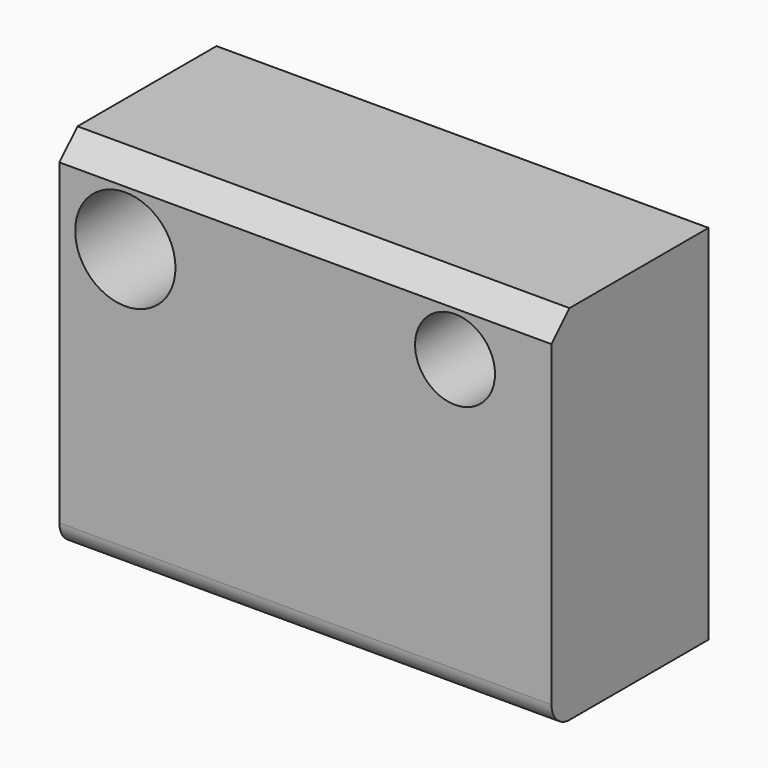
from build123d import *

# Parameters (mm, degrees)
F0_W     = 110.778176
F0_H     = 81.610888
F1_DEPTH = 44.196
F2_R     = 11.290646
F2_R_2   = 8.997209
F3_DEPTH = 44.196
F4_SIZE  = 5.08
F5_R     = 5.08


with BuildPart() as f1:
    # F0 (on Front) → F1 (new body)
    with BuildSketch(Plane.XZ):
        Rectangle(F0_W, F0_H)
    extrude(amount=F1_DEPTH)

    # F2 (on face) → F3 (cut, through all)
    with BuildSketch(Plane.XZ.offset(44.196)):
        with Locations((-40.556703, 23.323782)):
            Circle(F2_R)
        with Locations((33.670291, 25.632191)):
            Circle(F2_R_2)
    extrude(amount=-F3_DEPTH, mode=Mode.SUBTRACT)

    # F4
    f4_edges = [f1.edges().sort_by_distance(p)[0] for p in [
        (0, -44.196, 40.805444),
    ]]
    chamfer(f4_edges, length=F4_SIZE)

    # F5
    f5_edges = [f1.edges().sort_by_distance(p)[0] for p in [
        (0, -44.196, -40.805444),
    ]]
    fillet(f5_edges, radius=F5_R)


solid = f1.part
